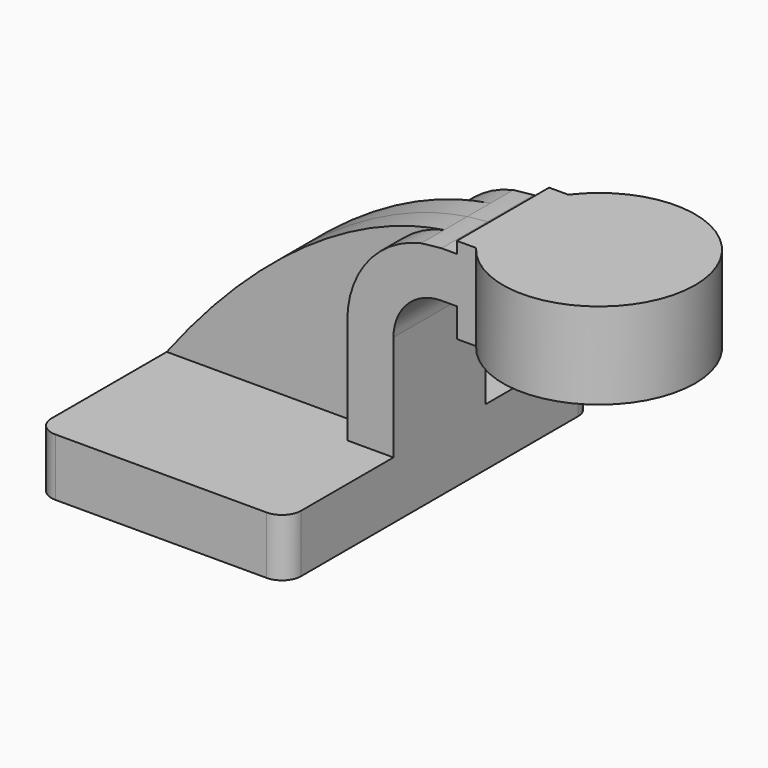
from build123d import *

# Parameters (mm, degrees)
F1_DEPTH = 63.5
F2_DEPTH = 9.525
F3_DEPTH = 19.05
F0_W     = 31.75
F0_H     = 28.575
F5_R     = 6.35


with BuildPart() as f1:
    # F0 (on Front) → F1 (new body, symmetric)
    with BuildSketch(Plane.XZ):
        Polygon((26.035, 9.525), (-41.275, 9.525), (-41.275, -9.525), (41.275, -9.525), (41.275, 9.525), align=None)
    extrude(amount=F1_DEPTH, both=True)

    # F0 (on Front) → F2 (join, symmetric)
    with BuildSketch(Plane.XZ):
        with BuildLine():
            add(Edge.make_bspline(
                [(-41.275, 9.525), (-16.936806, 41.503267), (15.500731, 69.51972), (50.427763, 74.83017)],
                knots=[0, 0, 0, 0, 111.410759, 111.410759, 111.410759, 111.410759], degree=3))
            Line((-41.275, 9.525), (26.035, 9.525))
            Line((26.035, 9.525), (26.035, 44.45))
            ThreePointArc((26.035, 44.45), (32.887831, 63.930513), (50.427763, 74.83017))
        make_face()
    extrude(amount=F2_DEPTH, both=True)

    # F0 (on Front) → F3 (join, symmetric)
    with BuildSketch(Plane.XZ):
        with BuildLine():
            Line((26.035, 44.45), (26.035, 9.525))
            Line((26.035, 9.525), (41.275, 9.525))
            Line((41.275, 9.525), (41.275, 44.45))
            ThreePointArc((41.275, 44.45), (45.92468, 55.67532), (57.15, 60.325))
            Line((57.15, 60.325), (62.24008, 60.325))
            Line((62.24008, 60.325), (62.24008, 75.565))
            Line((62.24008, 75.565), (57.15, 75.565))
            add(Edge.make_bspline(
                [(50.427763, 74.83017), (52.658838, 75.169392), (54.900071, 75.415964), (57.15, 75.565)],
                knots=[111.410759, 111.410759, 111.410759, 111.410759, 118.527475, 118.527475, 118.527475, 118.527475], degree=3))
            ThreePointArc((50.427763, 74.83017), (32.887831, 63.930513), (26.035, 44.45))
        make_face()
        Polygon((62.24008, 79.375), (62.24008, 75.565), (62.24008, 60.325), (62.24008, 50.8), (93.99008, 50.8), (93.99008, 79.375), align=None)
    extrude(amount=F3_DEPTH, both=True)

    # F0 (on Front) → F4 (revolve)
    with BuildSketch(Plane.XZ):
        with Locations((109.86508, 65.0875)):
            Rectangle(F0_W, F0_H)
    revolve(axis=Axis((93.99008, 0, 65.0875), (0, 0, 1)))

    # F5
    f5_edges = [f1.edges().sort_by_distance(p)[0] for p in [
        (41.275, 63.5, 0),
        (-41.275, 63.5, 0),
        (41.275, -63.5, 0),
        (-41.275, -63.5, 0),
    ]]
    fillet(f5_edges, radius=F5_R)


solid = f1.part
